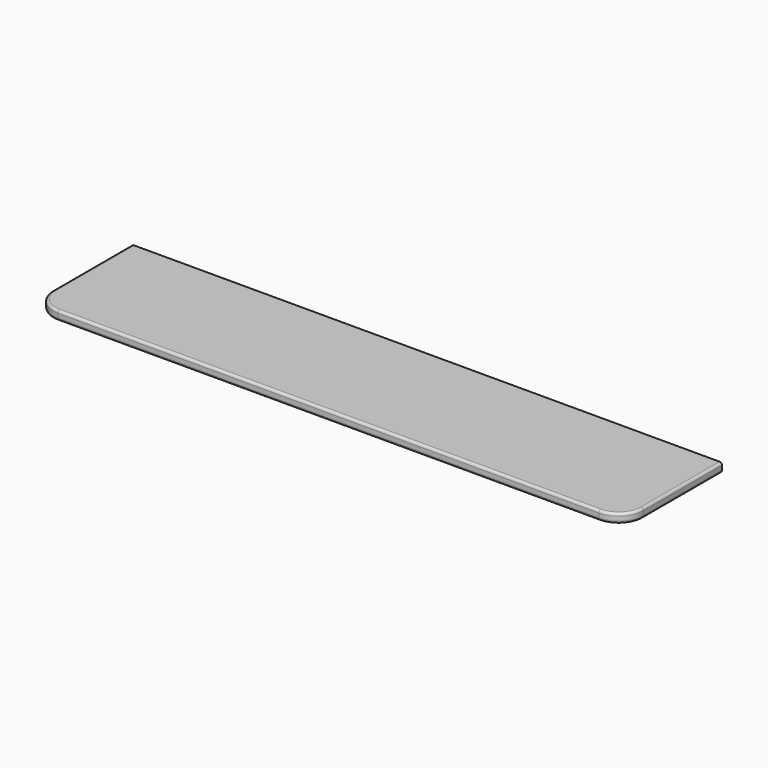
from build123d import *

# Parameters (mm, degrees)
F1_DEPTH = 19.05
F2_R     = 5.08
F3_R     = 5.08


with BuildPart() as f1:
    # F0 (on Top) → F1 (new body)
    with BuildSketch(Plane.XY):
        with BuildLine():
            Line((-558.8, -127), (558.8, -127))
            ThreePointArc((558.8, -127), (594.721024, -112.121024), (609.6, -76.2))
            Line((609.6, -76.2), (609.6, 127))
            Line((609.6, 127), (-609.6, 127))
            Line((-609.6, 127), (-609.6, -76.2))
            ThreePointArc((-609.6, -76.2), (-594.721024, -112.121024), (-558.8, -127))
        make_face()
    extrude(amount=F1_DEPTH)

    # F2
    f2_edges = [f1.edges().sort_by_distance(p)[0] for p in [
        (0, -127, 19.05),
    ]]
    fillet(f2_edges, radius=F2_R)

    # F3
    f3_edges = [f1.edges().sort_by_distance(p)[0] for p in [
        (0, -127, 0),
    ]]
    fillet(f3_edges, radius=F3_R)


solid = f1.part
